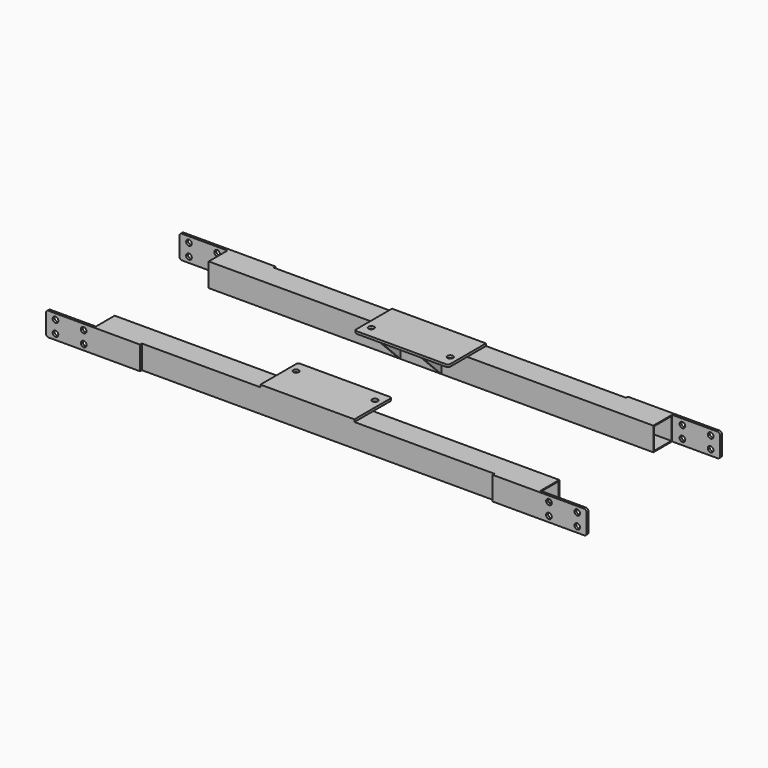
from build123d import *

# Parameters (mm, degrees)
F0_W      = 50
F0_H      = 50
F0_W_2    = 46
F0_H_2    = 46
F1_DEPTH  = 946
F2_W      = 200
F2_H      = 50
F2_R      = 6
F3_DEPTH  = 5
F4_R      = 5
F5_W      = 200
F5_H      = 100
F5_R      = 6
F6_DEPTH  = 5
F7_R      = 5
F8_W      = 3
F8_H      = 50
F9_DEPTH  = 50
F11_DEPTH = 90


with BuildPart() as f1:
    # F0 (on Right) → F1 (new body)
    with BuildSketch(Plane.YZ):
        Rectangle(F0_W, F0_H)
        Rectangle(F0_W_2, F0_H_2, mode=Mode.SUBTRACT)
    extrude(amount=F1_DEPTH)

    # F2 (on face) → F3 (join)
    with BuildSketch(Plane.XZ.offset(25)):
        with Locations((-2, 0)):
            Rectangle(F2_W, F2_H)
        with Locations((-82, -13)):
            Circle(F2_R, mode=Mode.SUBTRACT)
        with Locations((-22, -13)):
            Circle(F2_R, mode=Mode.SUBTRACT)
        with Locations((-82, 13)):
            Circle(F2_R, mode=Mode.SUBTRACT)
        with Locations((-22, 13)):
            Circle(F2_R, mode=Mode.SUBTRACT)
        with Locations((948, 0)):
            Rectangle(F2_W, F2_H)
        with Locations((968, -13)):
            Circle(F2_R, mode=Mode.SUBTRACT)
        with Locations((1028, -13)):
            Circle(F2_R, mode=Mode.SUBTRACT)
        with Locations((968, 13)):
            Circle(F2_R, mode=Mode.SUBTRACT)
        with Locations((1028, 13)):
            Circle(F2_R, mode=Mode.SUBTRACT)
    extrude(amount=F3_DEPTH)

    # F4
    f4_edges = [f1.edges().sort_by_distance(p)[0] for p in [
        (-102, -27.5, 25),
        (-102, -27.5, -25),
        (1048, -27.5, 25),
        (1048, -27.5, -25),
    ]]
    fillet(f4_edges, radius=F4_R)

    # F5 (on face) → F6 (join)
    with BuildSketch(Plane.XY.offset(25)):
        with Locations((450, 25)):
            Rectangle(F5_W, F5_H)
        with Locations((366, 50)):
            Circle(F5_R, mode=Mode.SUBTRACT)
        with Locations((534, 50)):
            Circle(F5_R, mode=Mode.SUBTRACT)
    extrude(amount=F6_DEPTH)

    # F7
    f7_edges = [f1.edges().sort_by_distance(p)[0] for p in [
        (350, 75, 27.5),
        (550, 75, 27.5),
    ]]
    fillet(f7_edges, radius=F7_R)

    # F8 (on face) → F9 (join)
    with BuildSketch(Plane(origin=(0, 25, 0), x_dir=(-1, 0, 0), z_dir=(0, 1, 0))):
        with Locations((-493.5, 0)):
            Rectangle(F8_W, F8_H)
        with Locations((-406.5, 0)):
            Rectangle(F8_W, F8_H)
    extrude(amount=F9_DEPTH)

    # F10 (on face) → F11 (cut)
    with BuildSketch(Plane.YZ.offset(495)):
        Polygon((25, -25), (75, -25), (75, 25), align=None)
    extrude(amount=-F11_DEPTH, mode=Mode.SUBTRACT)


with BuildPart() as f13_1:
    # F13: instance of F1
    add(f1.part.mirror(Plane.XZ.offset(-150)))


solid = Compound([f1.part, f13_1.part])
